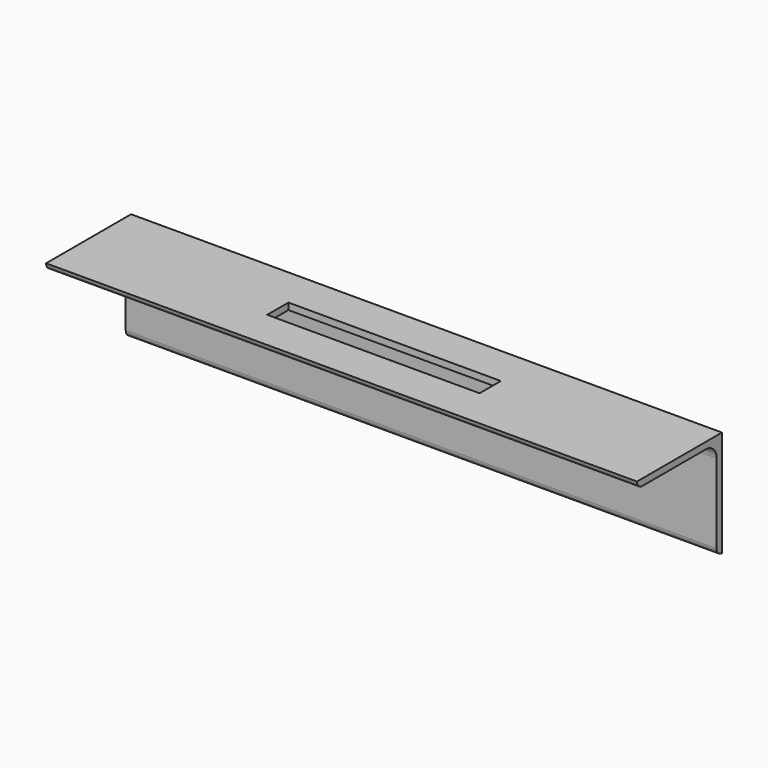
from build123d import *

# Parameters (mm, degrees)
F1_DEPTH      = 282.575
F4_W          = 101.6
F4_H          = 12.7
F5_DEPTH      = 25.4
F5_DEPTH_BACK = 25.4
F3_W          = 101.6
F3_H          = 12.7
F6_DEPTH      = 25.4
F6_DEPTH_BACK = 25.4


with BuildPart() as f1:
    # F0 (on Right) → F1 (new body)
    with BuildSketch(Plane.YZ):
        with BuildLine():
            Line((-0.102489, -7.189187), (0, -7.192553))
            Line((0, -7.192553), (0, 43.607447))
            Line((0, 43.607447), (-50.8, 43.607447))
            ThreePointArc((-50.8, 43.607447), (-49.870064, 41.362383), (-47.625, 40.432447))
            Line((-47.625, 40.432447), (-9.52329, 40.432447))
            ThreePointArc((-9.52329, 40.432447), (-5.033162, 38.572575), (-3.17329, 34.082447))
            Line((-3.17329, 34.082447), (-3.17329, -4.015898))
            ThreePointArc((-3.17329, -4.015898), (-2.279896, -6.223814), (-0.102489, -7.189187))
        make_face()
    extrude(amount=F1_DEPTH)


with BuildPart() as f1_1:
    # F2: moved
    add(f1.part.moved(Location((-137.16, 0, 1.524))))

    # F4 (on face) → F5 (cut, two sides)
    with BuildSketch(Plane.XZ.offset(3.17329)) as f5_sk:
        with Locations((4.1275, 19.737222)):
            Rectangle(F4_W, F4_H)
    extrude(amount=-F5_DEPTH, mode=Mode.SUBTRACT)
    extrude(f5_sk.sketch, amount=-F5_DEPTH_BACK, mode=Mode.SUBTRACT)

    # F3 (on face) → F6 (cut, two sides)
    with BuildSketch(Plane.XY.offset(45.131447)) as f6_sk:
        with Locations((4.1275, -25.4)):
            Rectangle(F3_W, F3_H)
    extrude(amount=-F6_DEPTH, mode=Mode.SUBTRACT)
    extrude(f6_sk.sketch, amount=-F6_DEPTH_BACK, mode=Mode.SUBTRACT)


solid = f1_1.part
